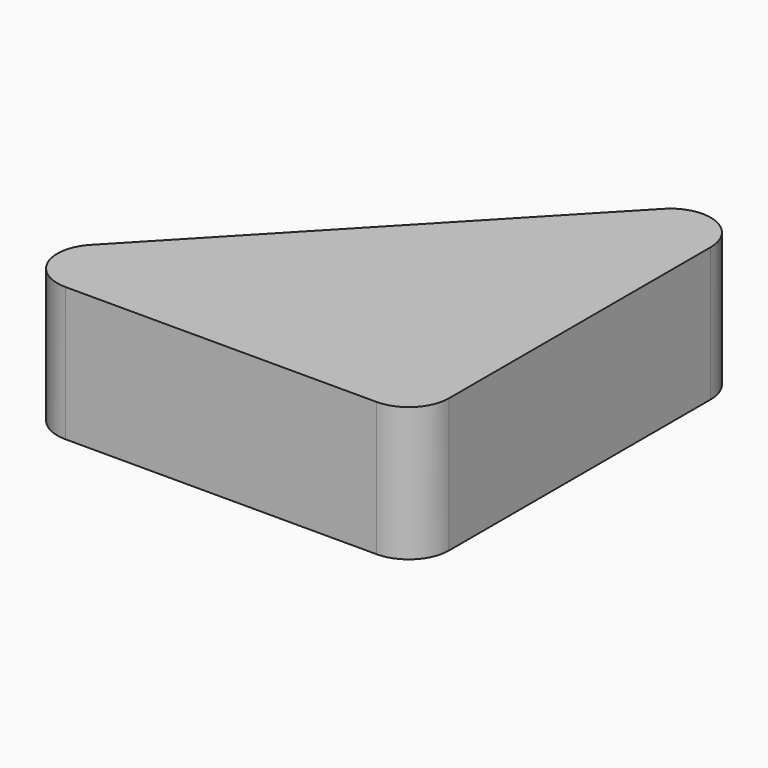
from build123d import *

# Parameters (mm, degrees)
F1_DEPTH = 10
F2_R     = 3


with BuildPart() as f1:
    # F0 (on Top) → F1 (new body)
    with BuildSketch(Plane.XY):
        Polygon((0, 0), (0, 34.90125), (-33.214033, 0), align=None)
    extrude(amount=F1_DEPTH)

    # F2
    f2_edges = [f1.edges().sort_by_distance(p)[0] for p in [
        (0, 0, 5),
        (-33.214033, 0, 5),
        (0, 34.90125, 5),
    ]]
    fillet(f2_edges, radius=F2_R)


solid = f1.part
